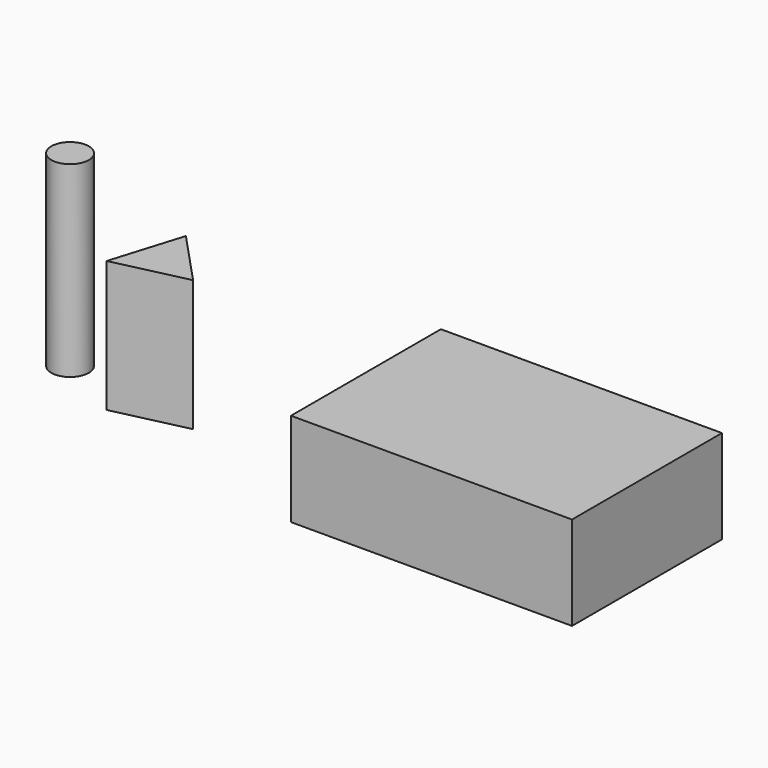
from build123d import *

# Parameters (mm, degrees)
F0_W     = 75
F0_H     = 50
F1_DEPTH = 25
F2_R     = 5
F3_DEPTH = 50
F5_DEPTH = 35


with BuildPart() as f1:
    # F0 (on Top) → F1 (new body)
    with BuildSketch(Plane.XY):
        with Locations((-2.189042, -9.649152)):
            Rectangle(F0_W, F0_H)
    extrude(amount=F1_DEPTH)


with BuildPart() as f3:
    # F2 (on Top) → F3 (new body)
    with BuildSketch(Plane.XY):
        with Locations((-119.657114, -8.369925)):
            Circle(F2_R)
    extrude(amount=F3_DEPTH)


with BuildPart() as f5:
    # F4 (on Top) → F5 (new body)
    with BuildSketch(Plane.XY):
        Polygon((-95.447138, 0), (-101.30808, -19.12196), (-81.817506, -14.636705), align=None)
    extrude(amount=F5_DEPTH)


solid = Compound([f1.part, f3.part, f5.part])
